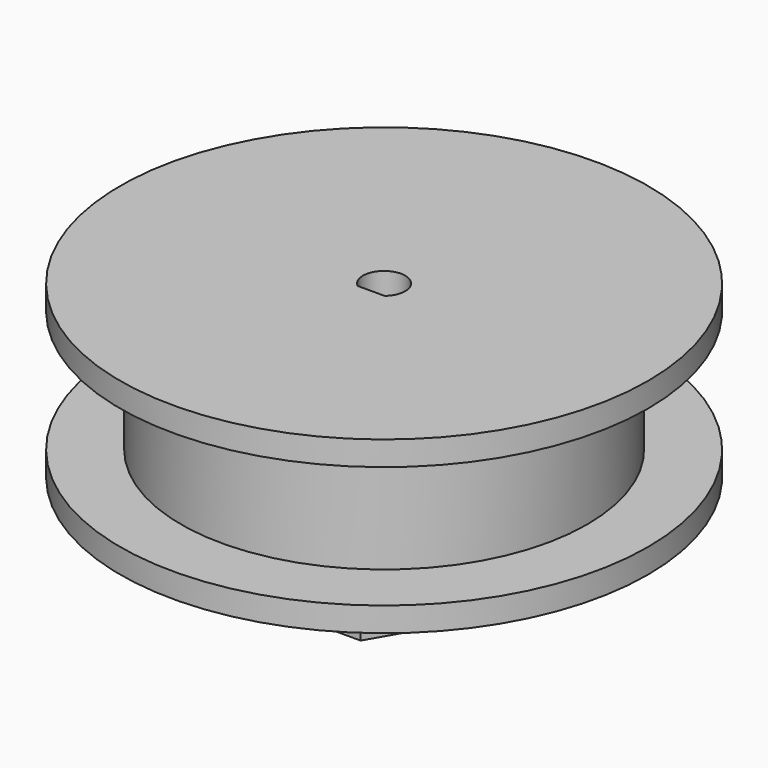
from build123d import *

# Parameters (mm, degrees)
SKETCH001_R     = 32.5
PAD001_DEPTH    = 3
SKETCH002_R     = 25
PAD002_DEPTH    = 15
SKETCH003_R     = 32.5
PAD003_DEPTH    = 3
PAD_DEPTH       = 10
POCKET_DEPTH    = 31
SKETCH005_W     = 8
SKETCH005_H     = 3.5
POCKET001_DEPTH = 9
SKETCH006_R     = 2
POCKET002_DEPTH = 7
SKETCH007_W     = 2.5
SKETCH007_H     = 5
POCKET003_DEPTH = 5
POCKET004_DEPTH = 13


with BuildPart() as obj1:
    # Sketch001 → Pad001 (new body)
    with BuildSketch(Plane.XY):
        Circle(SKETCH001_R)
    extrude(amount=PAD001_DEPTH)

    # Sketch002 (on Sketch) → Pad002 (join)
    with BuildSketch(Plane.XY.offset(3)):
        Circle(SKETCH002_R)
    extrude(amount=PAD002_DEPTH)

    # Sketch003 (on Face5 of Pad002) → Pad003 (join)
    with BuildSketch(Plane.XY.offset(18)):
        Circle(SKETCH003_R)
    extrude(amount=PAD003_DEPTH)


with BuildPart() as obj1_1:
    # Body placement: moved
    add(obj1.part.moved(Location((0, 0, 10))))


with BuildPart() as base:
    # Sketch → Pad (new body)
    with BuildSketch(Plane.XY):
        Polygon((15, 0), (7.5, 12.990381), (-7.5, 12.990381), (-15, 0), (-7.5, -12.990381), (7.5, -12.990381), align=None)
    extrude(amount=PAD_DEPTH)

    # Boolean: union obj1
    add(obj1_1.part)

    # Sketch004 (on Sketch) → Pocket (cut)
    with BuildSketch(Plane(origin=(0, 0, 0), x_dir=(1, 0, 0), z_dir=(0, 0, -1))):
        with BuildLine():
            ThreePointArc((-1.661325, 2), (0, -2.6), (1.661325, 2))
            Line((-1.661325, 2), (1.661325, 2))
        make_face()
    extrude(amount=-POCKET_DEPTH, mode=Mode.SUBTRACT)

    # Sketch005 (on Face8 of Pocket) → Pocket001 (cut)
    with BuildSketch(Plane(origin=(0, 0, 0), x_dir=(1, 0, 0), z_dir=(0, 0, -1))):
        with Locations((0, 7.75)):
            Rectangle(SKETCH005_W, SKETCH005_H)
    extrude(amount=-POCKET001_DEPTH, mode=Mode.SUBTRACT)

    # Sketch006 (on Face13 of Pocket001) → Pocket002 (cut)
    with BuildSketch(Plane.XZ.offset(12.990381)):
        with Locations((0, 4.5)):
            Circle(SKETCH006_R)
    extrude(amount=-POCKET002_DEPTH, mode=Mode.SUBTRACT)

    # Sketch007 (on Face22 of Pocket002) → Pocket003 (cut)
    with BuildSketch(Plane(origin=(0, 0, 9), x_dir=(1, 0, 0), z_dir=(0, 0, -1))):
        with Locations((3.25, -25)):
            Rectangle(SKETCH007_W, SKETCH007_H)
        with Locations((-3.25, -25)):
            Rectangle(SKETCH007_W, SKETCH007_H)
    extrude(amount=-POCKET003_DEPTH, mode=Mode.SUBTRACT)

    # Sketch006 (on Face13 of Pocket001) → Pocket004 (cut)
    with BuildSketch(Plane.XZ.offset(12.990381)):
        with Locations((0, 4.5)):
            Circle(SKETCH006_R)
    extrude(amount=-POCKET004_DEPTH, mode=Mode.SUBTRACT)


solid = base.part
